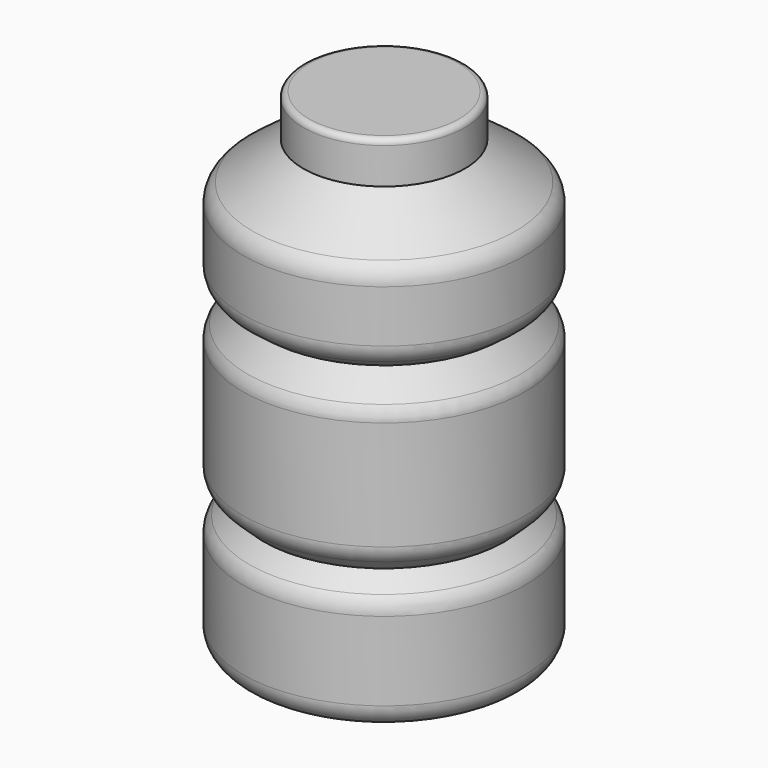
from build123d import *

# Parameters (mm, degrees)
F2_DEPTH = 12.7
F1_R     = 22.5055590266
F3_DEPTH = 7.62
F4_W     = 30.1420278847
F4_H     = 17.9640296847
F5_DEPTH = 2.54
F7_DEPTH = 1.27


with BuildPart() as f2:
    # F0 (on Front) → F2 (new body)
    with BuildSketch(Plane.XZ):
        Polygon((16.1803662777, 0), (37.0746999979, 0), (37.0746999979, 26.1179152876), (34.0169928968, 32.2333276272), (31.2140900642, 39.1131713986), (31.2140900642, 43.4449203312), (21.7861626297, 43.4449203312), (21.7861626297, 39.1131713986), (18.7284555286, 32.2333276272), (16.1803662777, 26.1179152876), align=None)
    extrude(amount=F2_DEPTH)


with BuildPart() as f3:
    # F1 (on Front) → F3 (new body)
    with BuildSketch(Plane.XZ):
        with Locations((78.2617554069, 32.2333276272)):
            Circle(F1_R)
    extrude(amount=F3_DEPTH)


with BuildPart() as f5:
    # F4 (on Top) → F5 (new body)
    with BuildSketch(Plane.XY):
        with Locations((-15.0710139424, 8.9820148423)):
            Rectangle(F4_W, F4_H)
    extrude(amount=F5_DEPTH)

    # F6 (on face) → F7 (join)
    with BuildSketch(Plane.XY.offset(2.54)):
        Polygon((-35.7478260994, 4.4591561891), (-30.1420278847, 2.4206847884), (0, 2.4206847884), (2.9831291176, 2.4206847884), (5.0216042437, 4.4591561891), (5.0216042437, 7.2620538995), (2.9831291176, 7.2620538995), (0, 7.2620538995), (-30.1420278847, 7.2620538995), (-32.6901189983, 7.2620538995), (-35.7478260994, 7.2620538995), align=None)
        Polygon((-30.1420278847, 11.8486145511), (0, 11.8486145511), (2.9831291176, 11.8486145511), (5.0216042437, 14.396703802), (0, 14.396703802), (-30.1420278847, 14.396703802), (-32.6901189983, 14.396703802), (-32.6901189983, 11.8486145511), align=None)
    extrude(amount=F7_DEPTH)


with BuildPart() as f12:
    # F11 (on Front) → F12 (revolve)
    with BuildSketch(Plane.XZ):
        with BuildLine():
            Line((0, -66.4687156677), (0, 55.9921823442))
            Line((0, 55.9921823442), (-22.0337584615, 55.9921823442))
            Line((-22.0337584615, 55.9921823442), (-35.9484543807, 45.556163555))
            ThreePointArc((-35.9484543807, 45.556163555), (-37.8180675739, 43.3159697459), (-38.4884551167, 40.476163003))
            Line((-38.4884551167, 40.476163003), (-38.4884551167, 26.2577953691))
            ThreePointArc((-38.4884551167, 26.2577953691), (-37.8180675121, 23.4179885028), (-35.9484541599, 21.1777946515))
            Line((-35.9484541599, 21.1777946515), (-32.1597233415, 18.3362476528))
            Line((-32.1597233415, 18.3362476528), (-37.2184558344, 11.5912683486))
            ThreePointArc((-37.2184558344, 11.5912683486), (-38.1625942485, 9.7893150524), (-38.4884551167, 7.7812693055))
            Line((-38.4884551167, 7.7812693055), (-38.4884551167, -21.9619643911))
            ThreePointArc((-38.4884551167, -21.9619643911), (-37.9697873011, -24.47554052), (-36.4985133985, -26.5784989984))
            Line((-36.4985133985, -26.5784989984), (-32.7925980091, -30.0785284489))
            Line((-32.7925980091, -30.0785284489), (-36.754989724, -34.2740041277))
            ThreePointArc((-36.754989724, -34.2740041277), (-38.0391963734, -36.2880546043), (-38.4884551167, -38.6340624095))
            Line((-38.4884551167, -38.6340624095), (-38.4884551167, -60.1187156677))
            ThreePointArc((-38.4884551167, -60.1187156677), (-36.6285831773, -64.6088437283), (-32.1384551167, -66.4687156677))
            Line((-32.1384551167, -66.4687156677), (0, -66.4687156677))
        make_face()
        with BuildLine():
            Line((0, 55.9921823442), (0, 67.4110209227))
            Line((0, 67.4110209227), (-20.4462584615, 67.4110209227))
            ThreePointArc((-20.4462584615, 67.4110209227), (-21.5687904766, 66.9460529378), (-22.0337584615, 65.8235209227))
            Line((-22.0337584615, 65.8235209227), (-22.0337584615, 55.9921823442))
            Line((-22.0337584615, 55.9921823442), (0, 55.9921823442))
        make_face()
    revolve(axis=Axis((0, 0, 0.4711526275), (0, 0, 1)))


solid = f12.part
